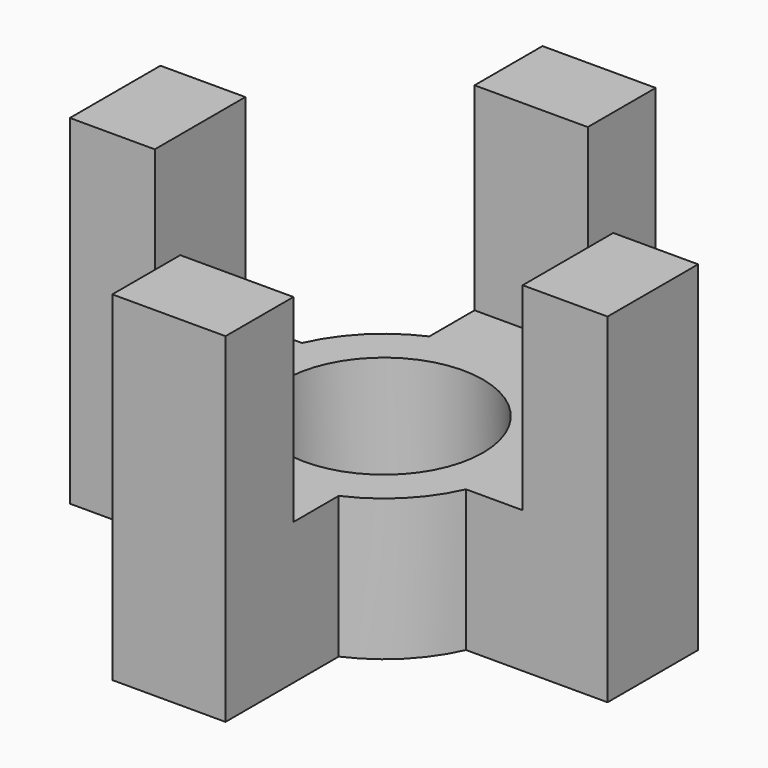
from build123d import *

# Parameters (mm, degrees)
SKETCH_R           = 3.5
PAD_DEPTH          = 5
SKETCH001_W        = 4
SKETCH001_H        = 3
PAD001_DEPTH       = 7
POLARPATTERN_COUNT = 4


with BuildPart() as part:
    # Sketch → Pad (new body)
    with BuildSketch(Plane.XY):
        with BuildLine():
            Line((-9.5, 2), (-9.5, -2))
            Line((-9.5, -2), (-4.5, -2))
            ThreePointArc((-4.5, -2), (-3.482097, -3.482097), (-2, -4.5))
            Line((-2, -9.5), (-2, -4.5))
            Line((-2, -9.5), (2, -9.5))
            Line((2, -9.5), (2, -4.5))
            ThreePointArc((2, -4.5), (3.482097, -3.482097), (4.5, -2))
            Line((9.5, -2), (4.5, -2))
            Line((9.5, -2), (9.5, 2))
            Line((9.5, 2), (4.5, 2))
            ThreePointArc((4.5, 2), (3.482097, 3.482097), (2, 4.5))
            Line((2, 9.5), (2, 4.5))
            Line((2, 9.5), (-2, 9.5))
            Line((-2, 9.5), (-2, 4.5))
            ThreePointArc((-2, 4.5), (-3.482097, 3.482097), (-4.5, 2))
            Line((-9.5, 2), (-4.5, 2))
        make_face()
        Circle(SKETCH_R, mode=Mode.SUBTRACT)
    extrude(amount=-PAD_DEPTH)

    # Sketch001 → Pad001 (join)
    with BuildSketch(Plane.XY):
        with Locations((0, 8)):
            Rectangle(SKETCH001_W, SKETCH001_H)
    pad001 = extrude(amount=PAD001_DEPTH)

    # PolarPattern: Pad001 ×4 about axis
    polarpattern_axis = Axis((0, 0, 0), (0, 0, 1))
    for i in range(1, POLARPATTERN_COUNT):
        add(pad001.rotate(polarpattern_axis, i * 360 / POLARPATTERN_COUNT))


solid = part.part
